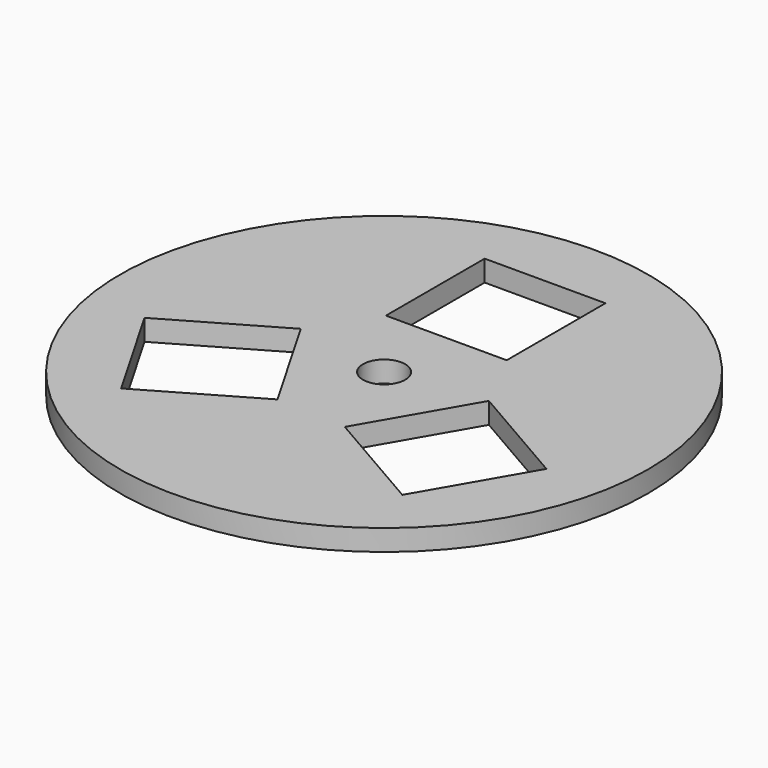
from build123d import *

# Parameters (mm, degrees)
F0_R     = 37.5
F0_R_2   = 3
F0_W     = 17.159223
F0_H     = 17.536352
F1_DEPTH = 3


with BuildPart() as f1:
    # F0 (on Top) → F1 (new body)
    with BuildSketch(Plane.XY):
        Circle(F0_R)
        Polygon((-5.117189, -12.538199), (-20.304115, -21.306375), (-28.883727, -6.446051), (-13.6968, 2.322125), align=None, mode=Mode.SUBTRACT)
        Polygon((13.416993, 1.837484), (28.60392, -6.930692), (20.024308, -21.791016), (4.837381, -13.02284), align=None, mode=Mode.SUBTRACT)
        Circle(F0_R_2, mode=Mode.SUBTRACT)
        with Locations((0.279807, 19.468891)):
            Rectangle(F0_W, F0_H, mode=Mode.SUBTRACT)
    extrude(amount=F1_DEPTH)


solid = f1.part
